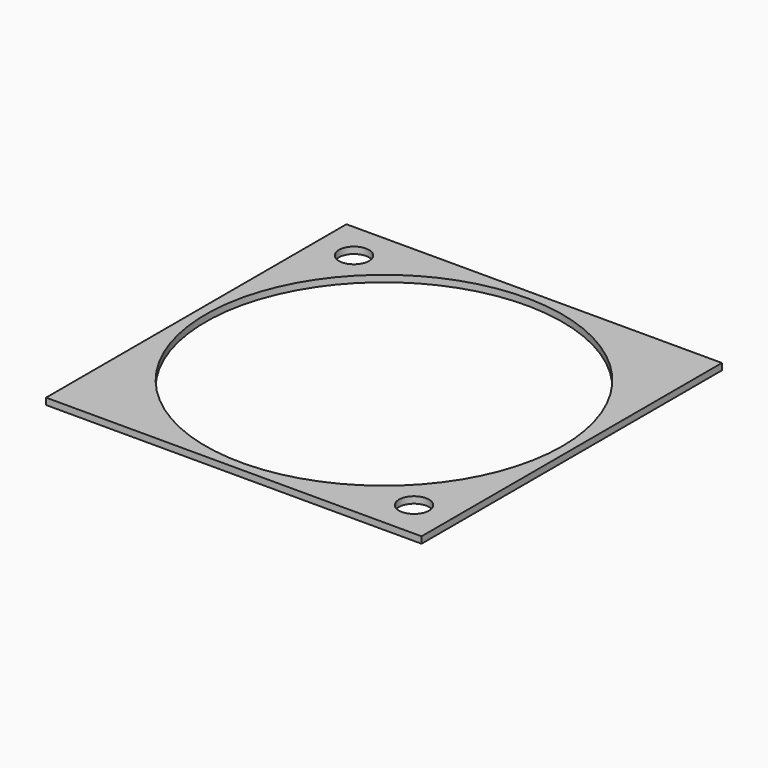
from build123d import *

# Parameters (mm, degrees)
CYLINDER018_R     = 19
CYLINDER018_DEPTH = 10
CYLINDER_R        = 1.6
CYLINDER_DEPTH    = 10
CYLINDER017_R     = 1.6
CYLINDER017_DEPTH = 10
BOX025003_W       = 40
BOX025003_H       = 40
BOX025003_DEPTH   = 0.7


with BuildPart() as cylinder018:
    # Cylinder018 → Cylinder018 (new body)
    with BuildSketch(Plane(origin=(-16, 16, 0), x_dir=(1, 0, 0), z_dir=(0, 0, 1))):
        Circle(CYLINDER018_R)
    extrude(amount=CYLINDER018_DEPTH)


with BuildPart() as cylinder:
    # Cylinder → Cylinder (new body)
    with BuildSketch(Plane.XY):
        Circle(CYLINDER_R)
    extrude(amount=CYLINDER_DEPTH)


with BuildPart() as cylinder017:
    # Cylinder017 → Cylinder017 (new body)
    with BuildSketch(Plane(origin=(-32, 32, 0), x_dir=(1, 0, 0), z_dir=(0, 0, 1))):
        Circle(CYLINDER017_R)
    extrude(amount=CYLINDER017_DEPTH)


with BuildPart() as cut007002001007029003026:
    # Box025003 → Box025003 (new body)
    with BuildSketch(Plane(origin=(-36, -4, 0), x_dir=(1, 0, 0), z_dir=(0, 0, 1))):
        with Locations((20, 20)):
            Rectangle(BOX025003_W, BOX025003_H)
    extrude(amount=BOX025003_DEPTH)

    # Cut007002001007029003024: cut Cylinder017
    add(cylinder017.part, mode=Mode.SUBTRACT)

    # Cut007002001007029003025: cut Cylinder
    add(cylinder.part, mode=Mode.SUBTRACT)

    # Cut007002001007029003026: cut Cylinder018
    add(cylinder018.part, mode=Mode.SUBTRACT)


solid = cut007002001007029003026.part
